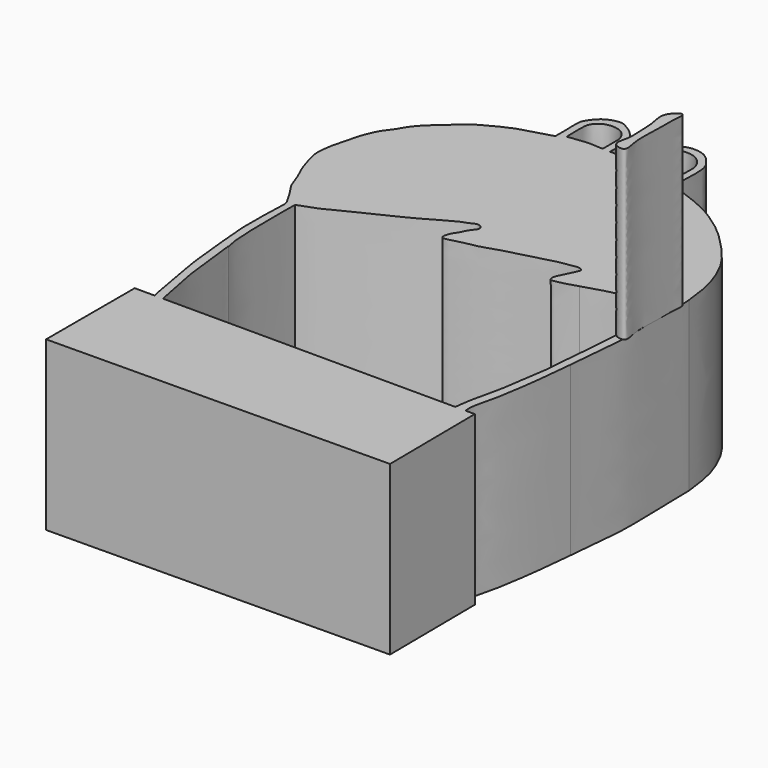
from build123d import *

# Parameters (mm, degrees)
F1_DEPTH = 10
F4_DEPTH = 10


with BuildPart() as f1:
    # F0 (on Top) → F1 (new body)
    with BuildSketch(Plane.XY):
        with BuildLine():
            Line((10.8895627182, -9.1397827491), (10.3403441608, -9.1379070655))
            add(Edge.make_bspline(
                [(11.2582361326, -2.4724663235), (11.2232641654, -2.7930947243), (11.1508957311, -3.456579716), (11.0471317452, -4.5868452361), (10.8909580975, -5.7189059922), (10.7160321923, -6.9912727983), (10.4146862464, -8.0694771526), (10.2968650826, -8.7658274732), (10.3275171322, -9.0281375912), (10.3403441608, -9.1379070655)],
                knots=[0, 0, 0, 0, 0.1469349199, 0.3040563902, 0.4630272256, 0.6316342307, 0.7896944803, 0.9119930008, 1, 1, 1, 1], degree=3))
            add(Edge.make_bspline(
                [(11.2582361326, -2.4724663235), (11.2766748497, -2.2434195514), (11.3171935192, -1.7257794407), (11.4278395251, -0.5649481278), (11.5525838566, 0.6078355227), (11.597858828, 1.4839961863), (11.5486343556, 2.8097636733), (11.5537363223, 3.7555579627), (11.510728326, 4.7544347308), (11.5208353685, 5.412576685), (11.5176285307, 5.8467742678), (11.4894472063, 6.0727987438)],
                knots=[0, 0, 0, 0, 0.0981429579, 0.2228093405, 0.3472041191, 0.4558046129, 0.5865007018, 0.7007288102, 0.8140509262, 0.9072401503, 1, 1, 1, 1], degree=3))
            add(Edge.make_bspline(
                [(11.4894472063, 6.0727987438), (11.4660047081, 6.2828467729), (11.4180765323, 6.7572126957), (11.2772873477, 7.6359795358), (10.9881793005, 8.6177483129), (10.6351991982, 9.3672522298), (10.389174034, 9.8464403692), (9.8302606814, 10.6207988512), (9.1692745277, 11.3346680288), (8.211413706, 12.3329141911), (7.111039688, 13.1028015389), (6.3069936031, 13.6200605976), (5.1984644543, 14.093925775), (4.4503119199, 14.3162680543), (3.9410698252, 14.7112041554), (3.8277428299, 14.775123623), (3.6765082425, 14.9785029506), (3.7570473411, 15.2009341489), (3.7521093618, 15.3363551944)],
                knots=[0, 0, 0, 0, 0.0590447261, 0.1272417867, 0.2009438474, 0.2656124954, 0.3184011887, 0.3873338423, 0.4593559948, 0.5442595368, 0.6275060988, 0.6985692036, 0.7767683735, 0.8424307606, 0.8976313113, 0.9234614504, 0.9563864424, 1, 1, 1, 1], degree=3))
            add(Edge.make_bspline(
                [(3.7521093618, 15.3363551944), (3.7610352368, 15.568967757), (3.789830767, 16.0195863101), (3.7620419675, 16.663082249), (3.6752332612, 17.1270142215), (3.2463418714, 17.66495965), (2.8618837996, 17.9779229948), (2.2706883821, 18.1044141356), (1.7944277485, 18.0366571171), (1.3327139926, 17.8255433949), (0.9962731883, 17.5078829817), (0.76513255, 17.1670266586), (0.6793374341, 16.8634378979), (0.6552202191, 16.3578445412), (0.6644739699, 16.0379043006), (0.6501135883, 15.7466631987), (0.6639084172, 15.4751988921), (0.6263661019, 15.3994641698), (0.30161101, 15.4156334177), (-0.1768345527, 15.4339988594), (-0.494411696, 15.4306166105), (-0.6417347477, 15.4296605503), (-0.7075667381, 15.4293412343)],
                knots=[0, 0, 0, 0, 0.0655721394, 0.1280315883, 0.1818085716, 0.245709394, 0.3014636308, 0.3610822924, 0.4156443285, 0.4709806381, 0.5246143739, 0.5740495415, 0.6183701706, 0.6739227422, 0.7188611254, 0.7620859053, 0.8021647628, 0.8212027777, 0.8636805182, 0.9201123788, 0.9644149652, 1, 1, 1, 1], degree=3))
            add(Edge.make_bspline(
                [(-0.7075667381, 15.4293412343), (-0.7066775187, 15.6506645272), (-0.7050452791, 16.0569227141), (-0.7139315064, 16.5497726626), (-0.6961084859, 16.6546016127), (-0.7775218971, 16.830453525), (-0.8731095696, 17.1107376117), (-1.0341287221, 17.3405037354), (-1.3446403502, 17.6573020014), (-1.7069884713, 17.8787419027), (-2.0679344189, 18.0753662862), (-2.5055899989, 18.0088405076), (-2.9352010638, 17.8537293081), (-3.2731579548, 17.5753717121), (-3.545603642, 17.1953202888), (-3.7058697422, 16.9147209918), (-3.6891423684, 16.3712195904), (-3.6875922434, 16.049469716), (-3.6798378826, 15.7928732183), (-3.6758366041, 15.6604684889)],
                knots=[0, 0, 0, 0, 0.07833998, 0.1437998586, 0.1737110261, 0.21441473, 0.2668140182, 0.3179217198, 0.3813959284, 0.4447156585, 0.5049604623, 0.5675876992, 0.6323079021, 0.6959633977, 0.7607734482, 0.8154813776, 0.8848113582, 0.9405622404, 1, 1, 1, 1], degree=3))
            add(Edge.make_bspline(
                [(-3.6758366041, 15.6604684889), (-3.6744482853, 15.5244613701), (-3.6721754501, 15.3018023044), (-3.682731503, 15.135355031), (-3.6566684962, 15.0791874099), (-3.9445170114, 14.9801557404), (-4.4444428314, 14.8341963224), (-4.9171927823, 14.7203522558), (-5.5988018681, 14.5264341073), (-6.1722141456, 14.2627865376), (-6.7865459859, 13.9464429952), (-7.2699629441, 13.6915040742), (-7.789584139, 13.262202778), (-8.4565570918, 12.7058846531), (-9.1575429669, 12.0803571258), (-9.6531000803, 11.4926764774), (-9.8945185278, 10.981529521), (-10.3426422072, 10.4589626604), (-10.6186147006, 9.8742751595), (-10.824458073, 9.3479397032), (-10.9535259152, 8.6586902531), (-11.1728198664, 8.0360116129), (-11.2689655788, 7.3669701439), (-11.3323252934, 6.738259816), (-11.1545241547, 6.0844589371), (-10.8650935865, 5.1086045417), (-10.4863464348, 4.4487281183), (-10.2781768929, 3.6676720108), (-9.95403244, 3.1762154969), (-9.5814608065, 2.6364857172), (-9.3802119551, 2.2670274173), (-9.2867794072, 2.0820926875)],
                knots=[0, 0, 0, 0, 0.0275658279, 0.0451173855, 0.053595608, 0.0761329823, 0.1093872083, 0.1410955525, 0.1784867986, 0.2146925489, 0.2517024234, 0.2847777759, 0.321193472, 0.3633195688, 0.4072528059, 0.4462046769, 0.4797241275, 0.5167105684, 0.552698679, 0.5864179152, 0.623763764, 0.660446389, 0.6972417162, 0.7323667509, 0.7693197959, 0.8144059729, 0.8541639088, 0.8938140426, 0.9282680125, 0.9643843709, 1, 1, 1, 1], degree=3))
            add(Edge.make_bspline(
                [(-9.2867794072, 2.0820926875), (-9.2653699645, 1.9908506936), (-9.2263447452, 1.8245344159), (-9.2395762651, 1.6506194632), (-9.2949740914, 0.0736413906), (-9.3127465731, -1.1186409347), (-9.1806107185, -2.5492769068), (-9.0780848164, -3.5095231801), (-8.9615063215, -4.6581742481), (-8.8532140132, -5.7055368933), (-8.6185680901, -6.7369900927), (-8.4574471662, -7.7715579035), (-8.2892336231, -8.5294899793), (-8.2645062357, -8.8096862461), (-8.2542984371, -8.9253550395)],
                knots=[0, 0, 0, 0, 0.0451220854, 0.0822487208, 0.1917412122, 0.2966111654, 0.4022011965, 0.49163179, 0.5874108785, 0.6801763676, 0.7728129841, 0.8659534562, 0.944663781, 1, 1, 1, 1], degree=3))
            add(Edge.make_bspline(
                [(-8.2542984371, -8.9253550395), (-8.2362586052, -8.9894177602), (-8.2182187734, -9.0534804809), (-8.2001789415, -9.1175432015)],
                knots=[0, 0, 0, 0, 0.1996627392, 0.1996627392, 0.1996627392, 0.1996627392], degree=3))
            Line((-8.2001789415, -9.1175432015), (-9.3885082752, -9.1161587979))
            Line((-9.3885082752, -9.1161587979), (-9.3885082752, -15.7159864902))
            Line((-9.3885082752, -15.7159864902), (10.9493257478, -15.5256520957))
            Line((10.9493257478, -15.5256520957), (10.8895627182, -9.1397827491))
        make_face()
        with BuildLine():
            add(Edge.make_bspline(
                [(-8.608664386, -3.0887457542), (-8.6516435161, -2.889258025), (-8.7384478278, -2.4863556167), (-8.7639443657, -1.8533354457), (-8.818523104, -0.973485966), (-8.8016157472, -0.0381977188), (-8.8422812542, 1.0953386503), (-8.800422189, 1.4556956298), (-8.808390841, 1.7577956215), (-8.8072897898, 1.9822432835), (-8.8067129254, 2.0998362452)],
                knots=[0, 0, 0, 0, 0.1242016951, 0.2508483217, 0.3986724727, 0.558110702, 0.7263359386, 0.8212942329, 0.9063722017, 1, 1, 1, 1], degree=3))
            add(Edge.make_bspline(
                [(-8.8067129254, 2.0998362452), (-8.683446335, 2.1411433704), (-8.3874713722, 2.2408083363), (-7.6319459567, 2.5107139888), (-6.7799235326, 2.9652108308), (-5.8125329107, 3.4612532635), (-4.8214610083, 3.9263357771), (-3.7773363202, 4.4351043058), (-2.7155644483, 5.0259283824), (-1.7962777117, 5.5803750391), (-1.3639862211, 5.6831024142), (-1.0419653245, 5.8845756582), (-0.81640139, 5.8659068939), (-0.7255468651, 5.7957301908), (-0.6829394842, 5.7628261857)],
                knots=[0, 0, 0, 0, 0.0654896443, 0.1546930224, 0.2543260568, 0.3589865708, 0.4640178825, 0.5720320049, 0.6847363511, 0.7875612177, 0.8541076398, 0.9140754227, 0.9596279309, 1, 1, 1, 1], degree=3))
            add(Edge.make_bspline(
                [(-0.6829394842, 5.7628261857), (-0.6444259603, 5.6985027951), (-0.5587608388, 5.5554292857), (-0.791484545, 5.2949628776), (-0.9862934291, 5.0051803078), (-1.0948928315, 4.7112329127), (-1.3260285968, 4.4100970928), (-1.4252589341, 4.1488275722), (-1.4934712027, 3.7437888844), (-0.9622062264, 3.8168188123), (-0.4275460977, 4.0164925962), (0.5138836168, 4.1334525293), (1.4206149933, 4.5015240902), (2.6813140131, 4.7983512586), (3.6406299998, 5.034252232), (4.3491235867, 5.2822380602), (5.0659355777, 5.3404505573), (5.323803875, 5.4283658829), (5.5810210428, 5.3975205326), (5.7370727618, 5.2721753625), (5.6139181162, 5.0085565709), (5.4976393573, 4.7509461474), (5.3009063059, 4.3760770243), (5.1765753239, 4.0882635372), (5.0915731877, 3.8626528092), (5.1598246329, 3.6040836437), (5.4440193827, 3.6324712094), (6.0377404214, 3.756080416), (6.4444570842, 3.8920829166), (6.6516185179, 3.9613558911)],
                knots=[0, 0, 0, 0, 0.0256894715, 0.0570800902, 0.0907699606, 0.1222962157, 0.1563219676, 0.187325552, 0.2176871965, 0.2529991842, 0.2970396464, 0.3509093875, 0.4072414386, 0.4712987926, 0.5272934319, 0.5764842155, 0.6233065123, 0.6525591878, 0.6802454775, 0.7025668588, 0.7306593846, 0.7616073777, 0.7981202255, 0.8298553644, 0.8573492895, 0.8830387846, 0.9101262456, 0.954173135, 1, 1, 1, 1], degree=3))
            add(Edge.make_bspline(
                [(6.6516185179, 3.9613558911), (6.811393663, 4.0021412365), (7.1632164955, 4.0919225191), (7.856801837, 4.3483042745), (8.7503736569, 4.5241314578), (9.6981867676, 4.8406694092), (10.4273051866, 4.9002380334), (10.773631197, 4.9417510641), (11.0496516702, 4.9855592867), (11.0115142185, 4.7550584937), (11.0397894403, 3.9483223803), (11.0499298898, 3.1118112576), (11.0641135296, 2.091128613), (11.0593311024, 1.0992712121), (10.9930233115, -0.0237639876), (10.8487505948, -1.4000385335), (10.7457160594, -2.8498112517), (10.7083067876, -3.3621195053), (10.6851682067, -3.5705058835)],
                knots=[0, 0, 0, 0, 0.0514220663, 0.1125671923, 0.18151619, 0.2538659926, 0.3145258751, 0.3576380562, 0.3901184721, 0.4183309265, 0.4822640864, 0.5498080469, 0.6215812161, 0.6928764935, 0.7682738358, 0.8539217164, 0.9402307269, 1, 1, 1, 1], degree=3))
            add(Edge.make_bspline(
                [(10.6851682067, -3.5705058835), (10.636422739, -3.8733788287), (10.5199860591, -4.5010664216), (10.3921493403, -5.602861805), (10.223345437, -6.6746944759), (9.8506325731, -8.0778362129), (9.7646511495, -8.8037475954), (9.7249639186, -9.1392607676)],
                knots=[0, 0, 0, 0, 0.1830455026, 0.379979199, 0.5787781377, 0.8052628113, 1, 1, 1, 1], degree=3))
            Line((9.7249639186, -9.1392607676), (-7.7048480097, -9.118120262))
            add(Edge.make_bspline(
                [(-7.7048480097, -9.118120262), (-7.7465532572, -8.9173164296), (-7.833787617, -8.4972974916), (-7.9994712775, -7.7370235204), (-8.0642048624, -7.2376140135), (-8.2357293259, -6.5547998288), (-8.2858863863, -5.9237685399), (-8.4136874553, -5.0323065159), (-8.4799901274, -4.1707309228), (-8.642513856, -3.073003027), (-8.6110758295, -3.0876242389), (-8.608664386, -3.0887457542)],
                knots=[0, 0, 0, 0, 0.1139855277, 0.2384221443, 0.3408054293, 0.4579037037, 0.5724612077, 0.7039071251, 0.8496970542, 0.9884710615, 1, 1, 1, 1], degree=3))
        make_face(mode=Mode.SUBTRACT)
        with BuildLine():
            add(Edge.make_bspline(
                [(-3.2322341576, 15.4997473583), (-3.2255433575, 15.6469397736), (-3.2493862047, 16.0695403185), (-3.2480097659, 16.5171563166), (-3.2261092243, 16.8587981628), (-3.0765927088, 17.1417228887), (-2.7674233773, 17.4108717301), (-2.4486528939, 17.4832786399), (-2.2027052703, 17.5173547863), (-1.7448456292, 17.4526186599), (-1.4141703436, 17.2100605462), (-1.1716305307, 16.8231627752), (-1.1559243122, 16.4354208884), (-1.1410244611, 16.0174333699), (-1.1728416487, 15.6938499896), (-1.1361087741, 15.4243589211), (-1.449000592, 15.475123536), (-1.8391381865, 15.4917589571), (-2.2049550668, 15.488032114), (-2.6404897133, 15.4084462411), (-3.0475842007, 15.3979882392), (-3.2528104493, 15.310863465), (-3.235685175, 15.4238276511), (-3.2322341576, 15.4997473583)],
                knots=[0, 0, 0, 0, 0.0606232318, 0.1160715152, 0.1622984898, 0.2074162022, 0.2587247059, 0.304123299, 0.3445205134, 0.3983611518, 0.4502360902, 0.5035685299, 0.5538437938, 0.6062256867, 0.6536693018, 0.6894964227, 0.7292020048, 0.7811994143, 0.8302109986, 0.8844984947, 0.9373257835, 0.9687314187, 1, 1, 1, 1], degree=3))
        make_face(mode=Mode.SUBTRACT)
        with BuildLine():
            add(Edge.make_bspline(
                [(1.0715415701, 15.4613228515), (1.060179716, 15.5540067445), (1.0360544895, 15.9171619929), (1.0338152763, 16.3650117628), (1.0416459799, 16.8244939879), (1.1187646918, 16.966957095), (1.1958291707, 17.1065738504), (1.4324994402, 17.3410558171), (1.6828271895, 17.5015192929), (1.962382672, 17.6072187521), (2.2800064352, 17.6098408355), (2.7032886888, 17.5197046591), (3.0572695965, 17.2386794788), (3.3435955213, 16.7963828178), (3.3735905145, 16.4120645189), (3.3609677342, 16.0780334965), (3.3461915728, 15.7397546215), (3.3419926752, 15.4700342383), (3.3358503449, 15.2124814761), (3.2517472478, 15.167500986), (2.9889744647, 15.1524000417), (2.5639280558, 15.206703332), (2.2108190403, 15.2250957287), (1.9046063367, 15.2505276372), (1.6337443438, 15.2853847092), (1.3806810461, 15.3152007125), (1.1602794896, 15.314395875), (1.0867510108, 15.3699964279), (1.0768144613, 15.4183094423), (1.0715415701, 15.4613228515)],
                knots=[0, 0, 0, 0, 0.0450976576, 0.0938684669, 0.1395775762, 0.1662314587, 0.1930983212, 0.2325847691, 0.2707254472, 0.3076382673, 0.3462356951, 0.3908771168, 0.4371401021, 0.4865070277, 0.52881208, 0.5686352497, 0.6084695679, 0.6455167393, 0.6787504213, 0.6973871061, 0.7317906245, 0.7777461053, 0.8191214416, 0.8570465999, 0.8929592464, 0.9284010134, 0.9601877149, 0.979070754, 1, 1, 1, 1], degree=3))
        make_face(mode=Mode.SUBTRACT)
    extrude(amount=-F1_DEPTH)

    # F3 (on offset) → F4 (join)
    with BuildSketch(Plane.XY):
        with BuildLine():
            add(Edge.make_bspline(
                [(10.9753487632, 4.9722995609), (10.8340831412, 4.6447481342), (11.0655847077, 3.9701066622), (11.0590689796, 3.0875794416), (11.1736211509, 2.062813308), (10.7851511926, 1.1214802382), (11.840624217, 0.8952772273), (11.5767016613, 1.7791360391), (11.5373577309, 2.6776972514), (11.6224456509, 3.5128428541), (11.5323010844, 4.586795878), (11.7589259457, 5.8136592961), (11.1002161727, 5.2618285884), (10.9753487632, 4.9722995609)],
                knots=[0, 0, 0, 0, 0.0976303822, 0.1901820502, 0.291092892, 0.3799211066, 0.4556622342, 0.5346634479, 0.6306893812, 0.7195175896, 0.8267413382, 0.913702621, 1, 1, 1, 1], degree=3))
        make_face()
    extrude(amount=F4_DEPTH)


solid = f1.part
